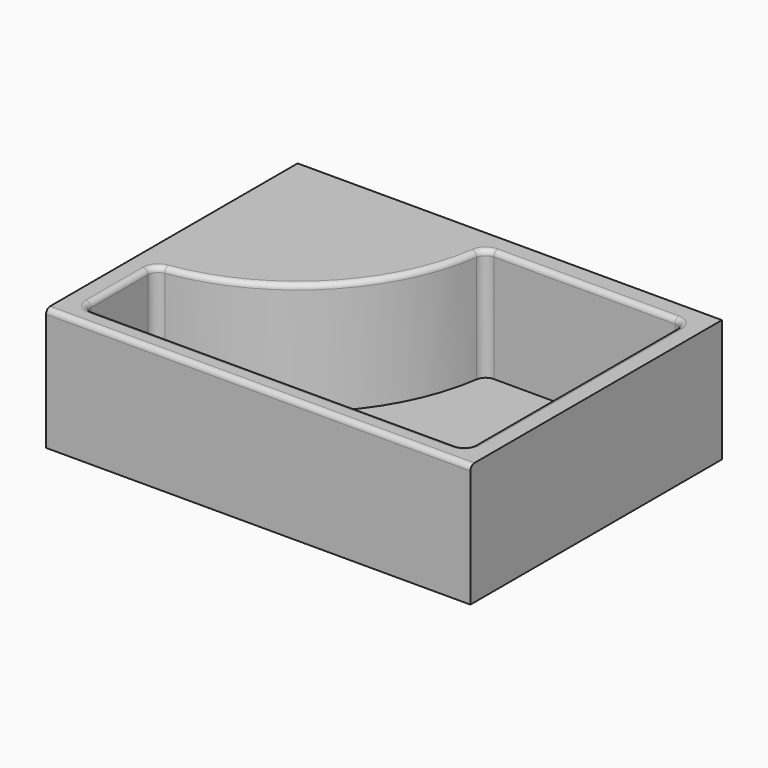
from build123d import *

# Parameters (mm, degrees)
F0_W     = 1054.1
F0_H     = 781.05
F1_DEPTH = 304.8
F0_R     = 25.4
F2_DEPTH = 25.4
F3_R     = 12.7
F4_SIZE  = 3.175
F5_R     = 12.7


with BuildPart() as f1:
    # F0 (on Top) → F1 (new body)
    with BuildSketch(Plane.XY):
        Rectangle(F0_W, F0_H)
        with BuildLine():
            ThreePointArc((-24.260394, 317.953571), (-15.749117, 333.525595), (0.879086, 339.725))
            Line((0.879086, 339.725), (450.85, 339.725))
            ThreePointArc((450.85, 339.725), (468.810512, 332.285512), (476.25, 314.325))
            Line((476.25, 314.325), (476.25, -314.325))
            ThreePointArc((476.25, -314.325), (468.810512, -332.285512), (450.85, -339.725))
            Line((450.85, -339.725), (-450.85, -339.725))
            ThreePointArc((-450.85, -339.725), (-468.810512, -332.285512), (-476.25, -314.325))
            Line((-476.25, -314.325), (-476.25, -137.404086))
            ThreePointArc((-476.25, -137.404086), (-470.050595, -120.775883), (-454.478571, -112.264606))
            ThreePointArc((-454.478571, -112.264606), (-167.839755, 31.314755), (-24.260394, 317.953571))
        make_face(mode=Mode.SUBTRACT)
    extrude(amount=F1_DEPTH)

    # F0 (on Top) → F2 (join)
    with BuildSketch(Plane.XY):
        with BuildLine():
            Line((450.85, 339.725), (0.879086, 339.725))
            ThreePointArc((0.879086, 339.725), (-15.749117, 333.525595), (-24.260394, 317.953571))
            ThreePointArc((-24.260394, 317.953571), (-167.839755, 31.314755), (-454.478571, -112.264606))
            ThreePointArc((-454.478571, -112.264606), (-470.050595, -120.775883), (-476.25, -137.404086))
            Line((-476.25, -137.404086), (-476.25, -314.325))
            ThreePointArc((-476.25, -314.325), (-468.810512, -332.285512), (-450.85, -339.725))
            Line((-450.85, -339.725), (450.85, -339.725))
            ThreePointArc((450.85, -339.725), (468.810512, -332.285512), (476.25, -314.325))
            Line((476.25, -314.325), (476.25, 314.325))
            ThreePointArc((476.25, 314.325), (468.810512, 332.285512), (450.85, 339.725))
        make_face()
        with Locations((400.05, 0)):
            Circle(F0_R, mode=Mode.SUBTRACT)
    extrude(amount=F2_DEPTH)

    # F3
    f3_edges = [f1.edges().sort_by_distance(p)[0] for p in [
        (-167.839755, 31.314755, 304.8),
    ]]
    fillet(f3_edges, radius=F3_R)

    # F4
    f4_edges = [f1.edges().sort_by_distance(p)[0] for p in [
        (374.65, 0, 25.4),
    ]]
    chamfer(f4_edges, length=F4_SIZE)

    # F5
    f5_edges = [f1.edges().sort_by_distance(p)[0] for p in [
        (0, -390.525, 304.8),
    ]]
    fillet(f5_edges, radius=F5_R)


solid = f1.part
